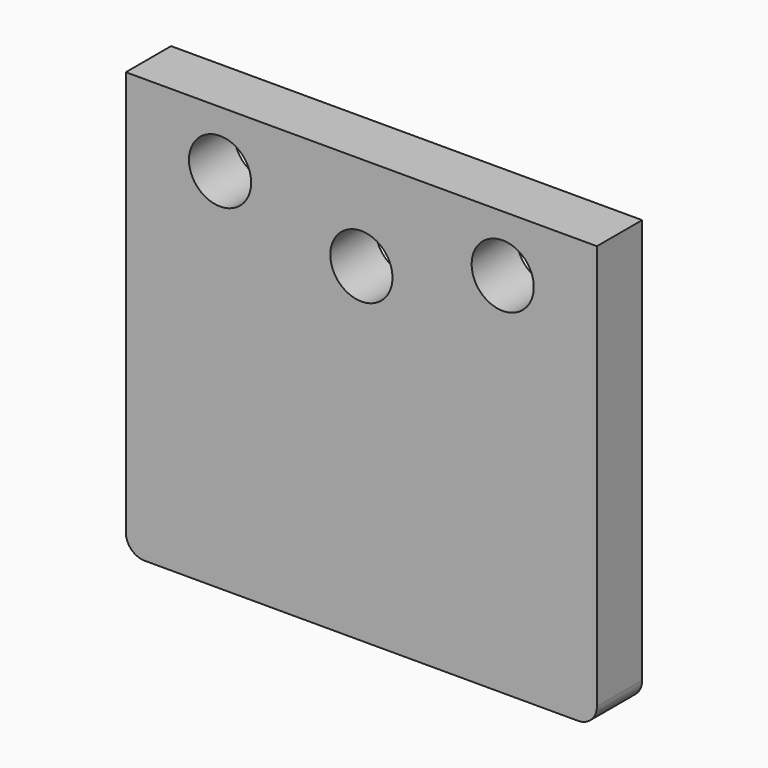
from build123d import *

# Parameters (mm, degrees)
F0_W     = 50
F0_H     = 45
F1_DEPTH = 6
F3_D     = 6.6
F4_R     = 2


with BuildPart() as f1:
    # F0 (on Front) → F1 (new body)
    with BuildSketch(Plane.XZ):
        with Locations((25, 22.5)):
            Rectangle(F0_W, F0_H)
    extrude(amount=F1_DEPTH)

    # F3 (through all)
    with Locations(Plane.XZ.offset(6)):
        with Locations((10, 39), (25, 35), (40, 39)):
            Hole(F3_D / 2)

    # F4
    f4_edges = [f1.edges().sort_by_distance(p)[0] for p in [
        (50, -3, 0),
        (0, -3, 0),
    ]]
    fillet(f4_edges, radius=F4_R)


solid = f1.part
